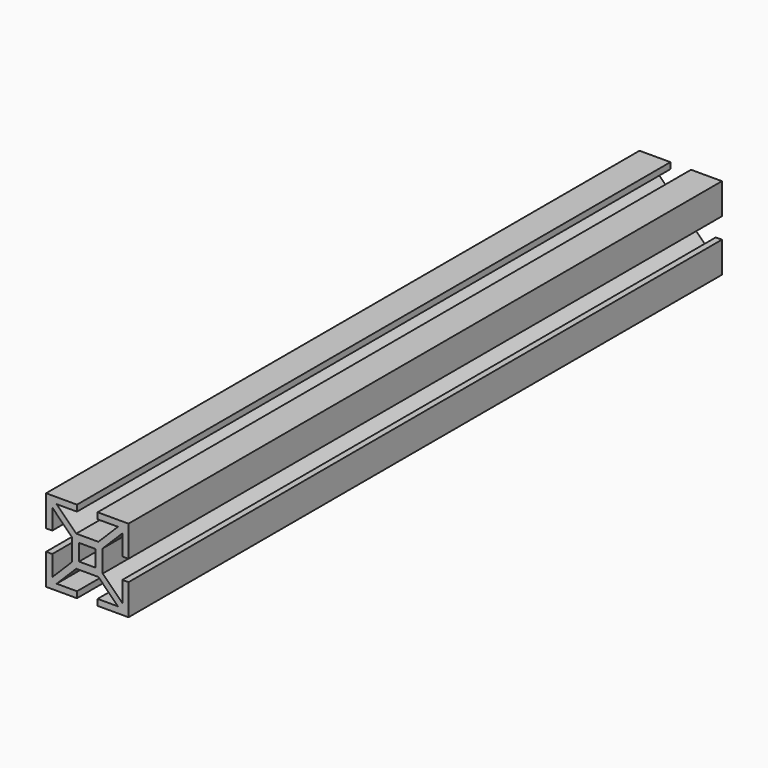
from build123d import *

# Parameters (mm, degrees)
F0_W     = 8
F0_H     = 8
F1_DEPTH = 180


with BuildPart() as f1:
    # F0 (on Front) → F1 (new body, symmetric)
    with BuildSketch(Plane.XZ):
        Polygon((-5, 17), (-5, 20), (-20, 20), (-20, 5), (-17, 5), (-17, 14.87868), (-17, 17), (-14.87868, 17), align=None)
        Polygon((-17, -5), (-20, -5), (-20, -20), (-5, -20), (-5, -17), (-14.87868, -17), (-17, -17), (-17, -14.87868), align=None)
        Polygon((20, -20), (20, -5), (17, -5), (17, -14.87868), (17, -17), (14.87868, -17), (5, -17), (5, -20), align=None)
        Polygon((20, 5), (20, 20), (5, 20), (5, 17), (14.87868, 17), (17, 17), (17, 14.87868), (17, 5), align=None)
        Polygon((17, 17), (14.87868, 17), (5.37868, 7.5), (7.5, 7.5), (7.5, 5.37868), (17, 14.87868), align=None)
        Polygon((-5.37868, 7.5), (-14.87868, 17), (-17, 17), (-17, 14.87868), (-7.5, 5.37868), (-7.5, 7.5), align=None)
        Polygon((-7.5, -5.37868), (-17, -14.87868), (-17, -17), (-14.87868, -17), (-5.37868, -7.5), (-7.5, -7.5), align=None)
        Polygon((17, -17), (17, -14.87868), (7.5, -5.37868), (7.5, -7.5), (5.37868, -7.5), (14.87868, -17), align=None)
        Polygon((7.5, 7.5), (5.37868, 7.5), (-5.37868, 7.5), (-7.5, 7.5), (-7.5, 5.37868), (-7.5, -5.37868), (-7.5, -7.5), (-5.37868, -7.5), (5.37868, -7.5), (7.5, -7.5), (7.5, -5.37868), (7.5, 5.37868), align=None)
        Rectangle(F0_W, F0_H, mode=Mode.SUBTRACT)
    extrude(amount=F1_DEPTH, both=True)


solid = f1.part
